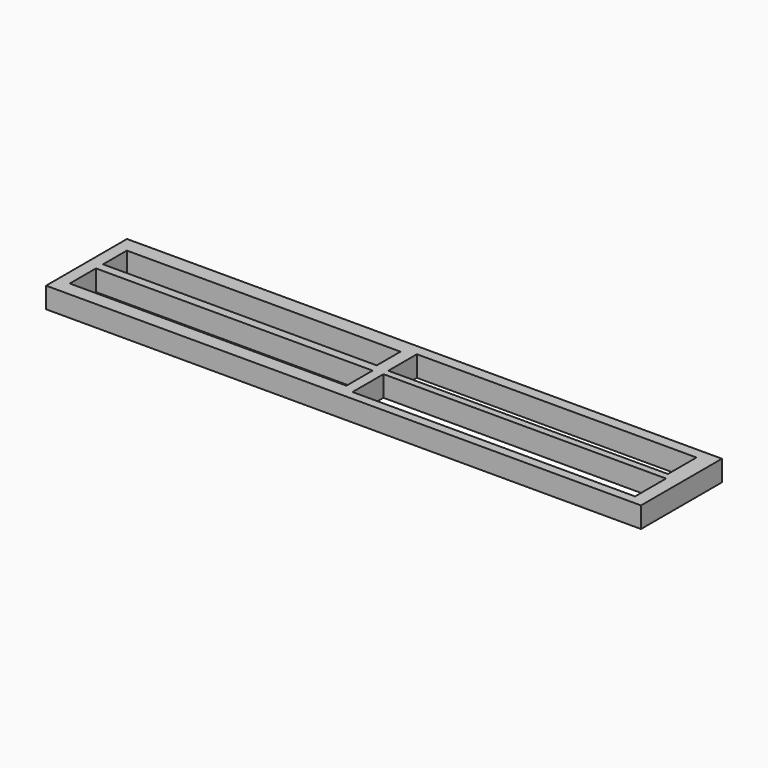
from build123d import *

# Parameters (mm, degrees)
F0_W     = 100
F0_H     = 17
F0_W_2   = 46.5
F0_H_2   = 5.5
F0_W_3   = 47.5
F0_H_3   = 6.5
F0_W_4   = 46
F0_H_4   = 5
F0_W_5   = 47
F0_H_5   = 6
F1_DEPTH = 3.5


with BuildPart() as f1:
    # F0 (on Top) → F1 (new body)
    with BuildSketch(Plane.XY):
        with Locations((-1.480579, -0.779607)):
            Rectangle(F0_W, F0_H)
        with Locations((-26.181791, -4.110991)):
            Rectangle(F0_W_2, F0_H_2, mode=Mode.SUBTRACT)
        with Locations((22.563219, -4.512767)):
            Rectangle(F0_W_3, F0_H_3, mode=Mode.SUBTRACT)
        with Locations((-26.431791, 2.627772)):
            Rectangle(F0_W_4, F0_H_4, mode=Mode.SUBTRACT)
        with Locations((22.200502, 2.902328)):
            Rectangle(F0_W_5, F0_H_5, mode=Mode.SUBTRACT)
    extrude(amount=F1_DEPTH)


solid = f1.part
